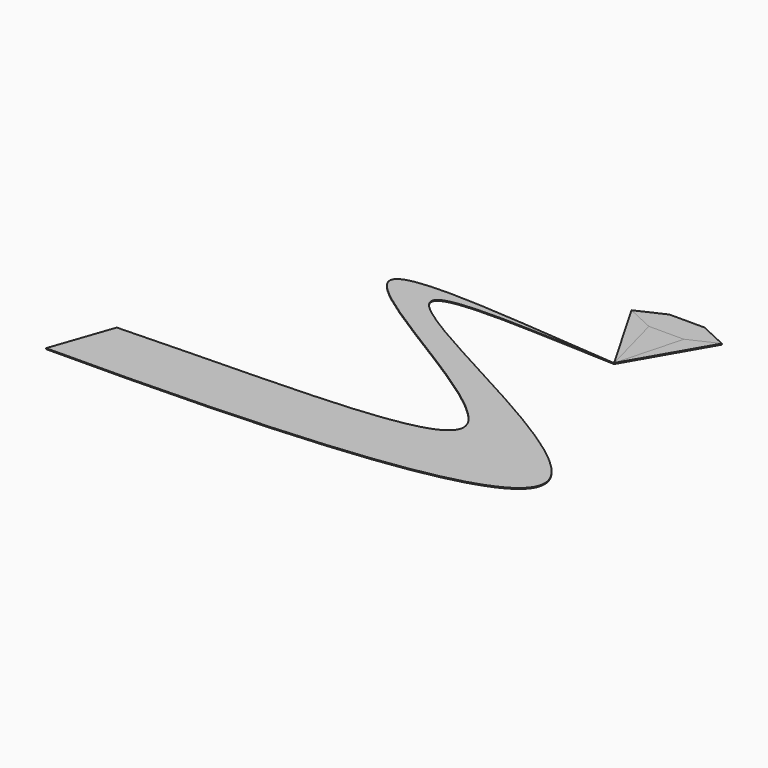
from build123d import *

# Parameters (mm, degrees)
F1_DEPTH = 0.254
F3_DEPTH = 0.254
F5_DEPTH = 0.254
F7_DEPTH = 0.254
F9_DEPTH = 0.0254


with BuildPart() as f1:
    # F0 (on Top) → F1 (new body)
    with BuildSketch(Plane.XY):
        with BuildLine():
            add(Edge.make_bspline(
                [(32.3311924146, 30.5267168231), (6.1832049311, 31.4184533549), (-56.404909456, 37.0038669279), (117.2922357219, -34.3584042871), (2.3639605893, -41.6481557064), (-69.374486804, -41.7538322508)],
                knots=[0, 0, 0, 0, 0.255287258, 0.5921491381, 1, 1, 1, 1], degree=3))
            add(Edge.make_bspline(
                [(32.3311924146, 30.5267168231), (0, 33.0365635455), (-70.2253727994, 41.7341166509), (72.8621746041, -26.0537960355), (-16.8823206713, -22.6216614541), (-63.391021555, -24.4254103514)],
                knots=[0, 0, 0, 0, 0.3080999575, 0.6318350835, 1, 1, 1, 1], degree=3))
            Line((-63.391021555, -24.4254103514), (-69.374486804, -41.7538322508))
        make_face()
    extrude(amount=F1_DEPTH)


with BuildPart() as f3:
    # F2 (on Top) → F3 (new body)
    with BuildSketch(Plane.XY):
        Polygon((27.4006896054, 48.9276038139), (32.3311924146, 30.5267168231), (45.0311924146, 52.5237620792), (37.2616952239, 48.9276038139), align=None)
    extrude(amount=F3_DEPTH)


with BuildPart() as f5:
    # F4 (on Top) → F5 (new body)
    with BuildSketch(Plane.XY):
        Polygon((27.4006896054, 48.9276038139), (19.6311924146, 52.5237620792), (32.3311924146, 30.5267168231), align=None)
    extrude(amount=F5_DEPTH)


with BuildPart() as f7:
    # F6 (on Top) → F7 (new body)
    with BuildSketch(Plane.XY):
        Polygon((27.4006896054, 56.1199203445), (19.6311924146, 52.5237620792), (27.4006896054, 48.9276038139), (37.2616952239, 48.9276038139), (45.0311924146, 52.5237620792), (37.2616952239, 56.1199203445), align=None)
    extrude(amount=F7_DEPTH)


with BuildPart() as f9:
    # F8 (on face) → F9 (new body)
    with BuildSketch(Plane.XY.offset(0.254)):
        Polygon((45.0311924146, 52.5237620792), (37.2616952239, 48.9276038139), (32.3311924146, 30.5267168231), align=None)
    extrude(amount=F9_DEPTH)


solid = Compound([f1.part, f3.part, f5.part, f7.part, f9.part])
